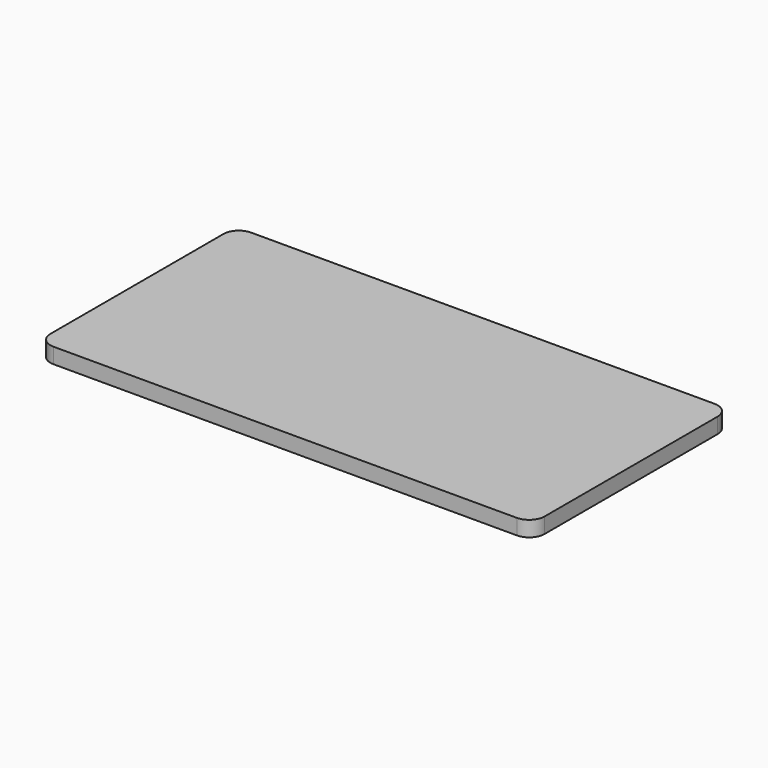
from build123d import *

# Parameters (mm, degrees)
SKETCH_W     = 101.6
SKETCH_H     = 50.8
PAD_DEPTH    = 3.175
FILLET_R     = 3.175
SKETCH001_W  = 50.8
SKETCH001_H  = 18.023603
POCKET_DEPTH = 1.5875


with BuildPart() as part:
    # Sketch → Pad (new body)
    with BuildSketch(Plane.XY):
        Rectangle(SKETCH_W, SKETCH_H)
    extrude(amount=PAD_DEPTH)

    # Fillet
    fillet_edges = [part.edges().sort_by_distance(p)[0] for p in [
        (-50.8, 25.4, 1.5875),
        (50.8, 25.4, 1.5875),
        (50.8, -25.4, 1.5875),
        (-50.8, -25.4, 1.5875),
    ]]
    fillet(fillet_edges, radius=FILLET_R)

    # Sketch001 (on Sketch) → Pocket (cut, symmetric)
    with BuildSketch(Plane(origin=(0, 0, 0), x_dir=(1, 0, 0), z_dir=(0, 0, -1))):
        with Locations((0, 0.329702)):
            Rectangle(SKETCH001_W, SKETCH001_H)
    extrude(amount=POCKET_DEPTH, both=True, mode=Mode.SUBTRACT)


solid = part.part
